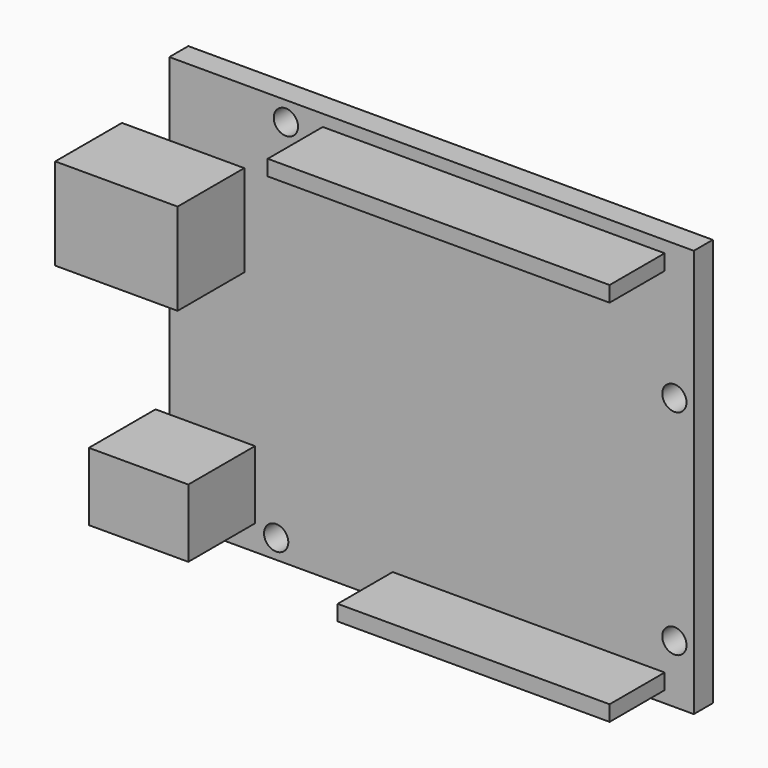
from build123d import *

# Parameters (mm, degrees)
F0_W     = 68.58
F0_H     = 53.34
F0_R     = 1.5875
F1_DEPTH = 3.1
F2_W     = 6.2
F2_H     = 12
F2_W_2   = 9.8
F2_W_3   = 11.2
F2_H_2   = 8.9
F2_W_4   = 1.8
F3_DEPTH = 10.9
F4_W     = 44.704
F4_H     = 2.032
F4_W_2   = 35.56
F5_DEPTH = 9


with BuildPart() as f1:
    # F0 (on Front) → F1 (new body)
    with BuildSketch(Plane.XZ):
        with Locations((34.29, 26.67)):
            Rectangle(F0_W, F0_H)
        with Locations((13.97, 2.54)):
            Circle(F0_R, mode=Mode.SUBTRACT)
        with Locations((66.04, 7.62)):
            Circle(F0_R, mode=Mode.SUBTRACT)
        with Locations((15.24, 50.8)):
            Circle(F0_R, mode=Mode.SUBTRACT)
        with Locations((66.04, 35.56)):
            Circle(F0_R, mode=Mode.SUBTRACT)
    extrude(amount=F1_DEPTH)

    # F2 (on face) → F3 (join)
    with BuildSketch(Plane.XZ.offset(3.1)):
        with Locations((-3.1, 37.74)):
            Rectangle(F2_W, F2_H)
        with Locations((4.9, 37.74)):
            Rectangle(F2_W_2, F2_H)
        with Locations((5.6, 7.75)):
            Rectangle(F2_W_3, F2_H_2)
        with Locations((-0.9, 7.75)):
            Rectangle(F2_W_4, F2_H_2)
    extrude(amount=F3_DEPTH)

    # F4 (on face) → F5 (join)
    with BuildSketch(Plane.XZ.offset(3.1)):
        with Locations((42.418, 50.8)):
            Rectangle(F4_W, F4_H)
        with Locations((46.99, 2.54)):
            Rectangle(F4_W_2, F4_H)
    extrude(amount=F5_DEPTH)


solid = f1.part
